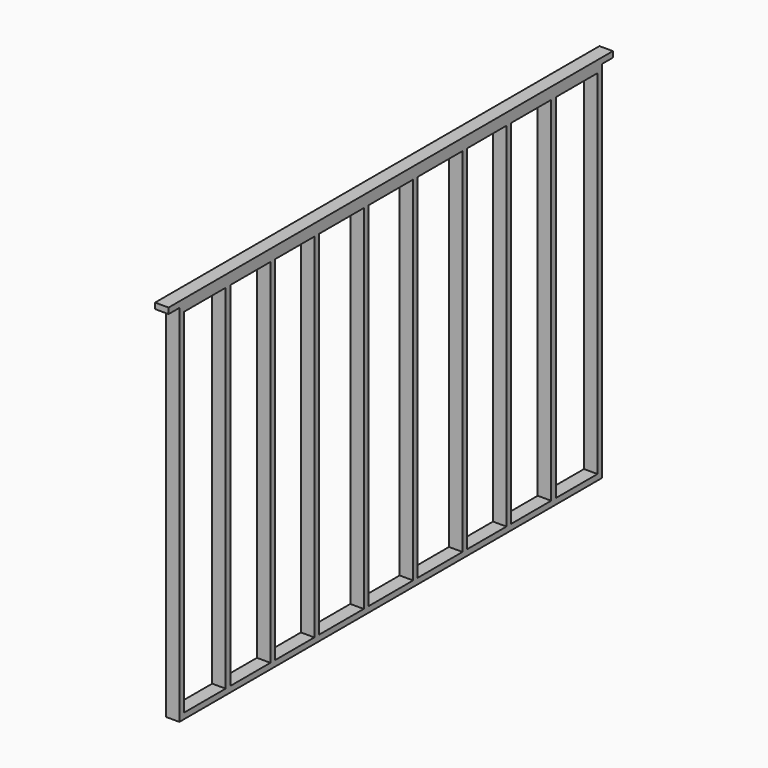
from build123d import *

# Parameters (mm, degrees)
F0_W     = 38.1
F0_H     = 2324.1
F1_DEPTH = 88.9


with BuildPart() as f1:
    # F0 (on Right) → F1 (new body)
    with BuildSketch(Plane.YZ):
        with Locations((19.05, 1200.15)):
            Rectangle(F0_W, F0_H)
        with Locations((400.05, 1200.15)):
            Rectangle(F0_W, F0_H)
        with Locations((768.35, 1200.15)):
            Rectangle(F0_W, F0_H)
        with Locations((1130.3, 1200.15)):
            Rectangle(F0_W, F0_H)
        with Locations((2349.5, 1200.15)):
            Rectangle(F0_W, F0_H)
        with Locations((2711.45, 1200.15)):
            Rectangle(F0_W, F0_H)
        with Locations((3079.75, 1200.15)):
            Rectangle(F0_W, F0_H)
        with Locations((3460.75, 1200.15)):
            Rectangle(F0_W, F0_H)
        Polygon((0, 2400.3), (0, 2362.2), (38.1, 2362.2), (381, 2362.2), (419.1, 2362.2), (749.3, 2362.2), (787.4, 2362.2), (1111.25, 2362.2), (1149.35, 2362.2), (1517.65, 2362.2), (1555.75, 2362.2), (1924.05, 2362.2), (1962.15, 2362.2), (2330.45, 2362.2), (2368.55, 2362.2), (2692.4, 2362.2), (2730.5, 2362.2), (3060.7, 2362.2), (3098.8, 2362.2), (3441.7, 2362.2), (3479.8, 2362.2), (3479.8, 2400.3), align=None)
        Polygon((-88.9, 2400.3), (0, 2400.3), (3479.8, 2400.3), (3568.7, 2400.3), (3568.7, 2438.4), (-88.9, 2438.4), align=None)
        Polygon((0, 38.1), (0, 0), (3479.8, 0), (3479.8, 38.1), (3441.7, 38.1), (3098.8, 38.1), (3060.7, 38.1), (2730.5, 38.1), (2692.4, 38.1), (2368.55, 38.1), (2330.45, 38.1), (1962.15, 38.1), (1924.05, 38.1), (1555.75, 38.1), (1517.65, 38.1), (1149.35, 38.1), (1111.25, 38.1), (787.4, 38.1), (749.3, 38.1), (419.1, 38.1), (381, 38.1), (38.1, 38.1), align=None)
        with Locations((1536.7, 1200.15)):
            Rectangle(F0_W, F0_H)
        with Locations((1943.1, 1200.15)):
            Rectangle(F0_W, F0_H)
    extrude(amount=F1_DEPTH)


solid = f1.part
